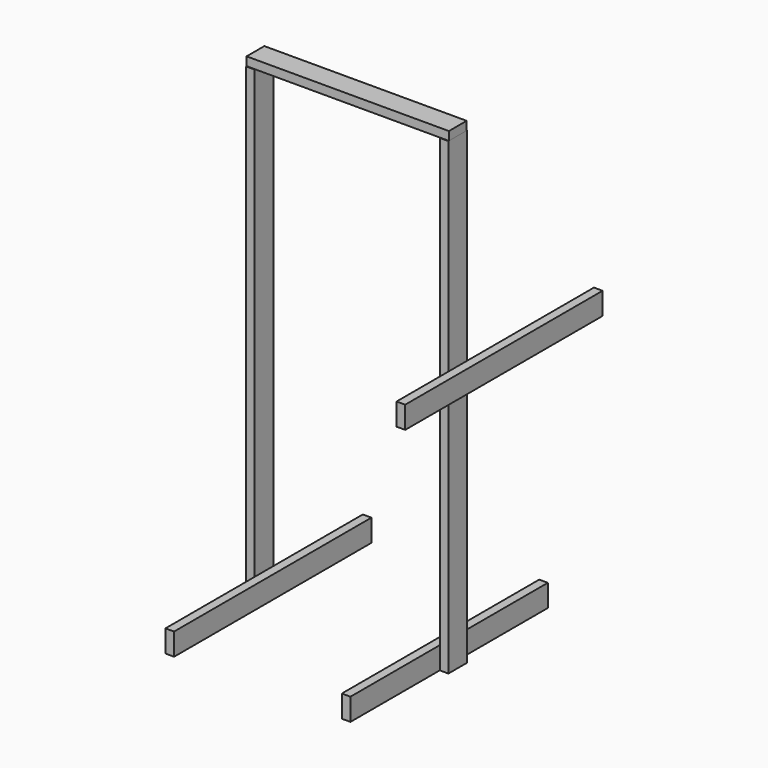
from build123d import *

# Parameters (mm, degrees)
F0_W          = 35
F0_H          = 90
F1_DEPTH      = 1000
F2_DEPTH      = 500
F4_W          = 35
F4_H          = 95
F5_DEPTH      = 1900
F6_W          = 90
F6_H          = 35
F7_DEPTH      = 410
F7_DEPTH_BACK = 410


with BuildPart() as f1:
    # F0 (on Front) → F1 (new body)
    with BuildSketch(Plane.XZ):
        with Locations((979.430446, 542.652875)):
            Rectangle(F0_W, F0_H)
    extrude(amount=F1_DEPTH)


with BuildPart() as f2:
    # F0 (on Front) → F2 (new body, symmetric)
    with BuildSketch(Plane.XZ):
        with Locations((-357.5, -905)):
            Rectangle(F0_W, F0_H)
        with Locations((357.5, -905)):
            Rectangle(F0_W, F0_H)
    extrude(amount=F2_DEPTH, both=True)


with BuildPart() as f5:
    # F4 (on face) → F5 (new body, through all)
    with BuildSketch(Plane(origin=(0, 0, -950), x_dir=(1, 0, 0), z_dir=(0, 0, -1))):
        with Locations((392.5, 0)):
            Rectangle(F4_W, F4_H)
        with Locations((-392.5, 0)):
            Rectangle(F4_W, F4_H)
    extrude(amount=-F5_DEPTH)


with BuildPart() as f7:
    # F6 (on Right) → F7 (new body, two sides)
    with BuildSketch(Plane.YZ) as f7_sk:
        with Locations((0, 967.5)):
            Rectangle(F6_W, F6_H)
    extrude(amount=F7_DEPTH)
    extrude(f7_sk.sketch, amount=-F7_DEPTH_BACK)


solid = Compound([f1.part, f2.part, f5.part, f7.part])
